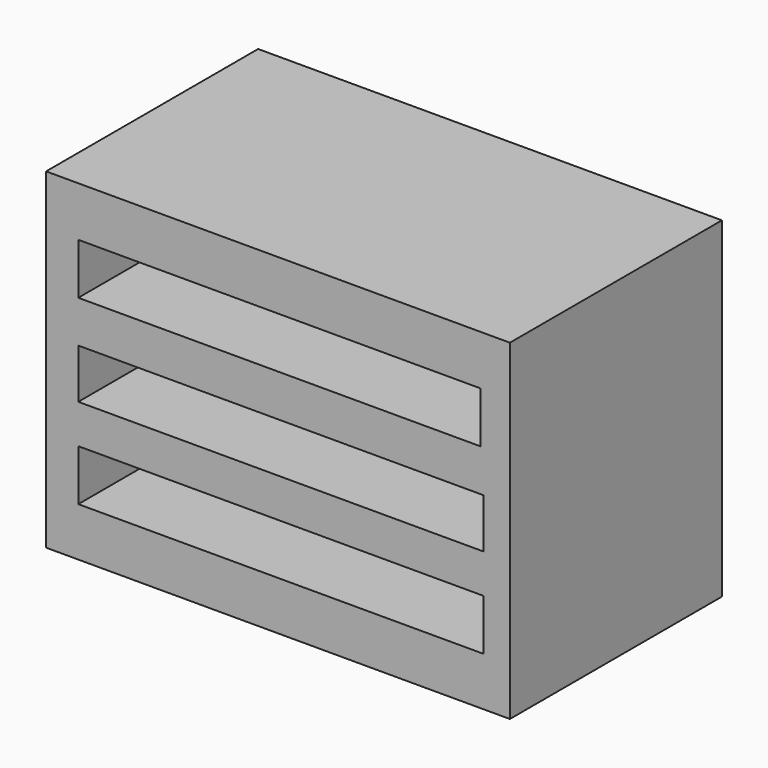
from build123d import *

# Parameters (mm, degrees)
F0_W     = 88.9
F0_H     = 50.8
F1_DEPTH = 63.5
F2_W     = 77.131945
F2_H     = 9.785395
F2_W_2   = 77.707555
F2_H_2   = 9.497588
F2_H_3   = 9.785396
F3_DEPTH = 127


with BuildPart() as f1:
    # F0 (on Top) → F1 (new body)
    with BuildSketch(Plane.XY):
        with Locations((6.763436, -7.159584)):
            Rectangle(F0_W, F0_H)
    extrude(amount=F1_DEPTH)

    # F2 (on Front) → F3 (cut)
    with BuildSketch(Plane.XZ):
        with Locations((7.051242, 49.070881)):
            Rectangle(F2_W, F2_H)
        with Locations((7.339047, 31.370827)):
            Rectangle(F2_W_2, F2_H_2)
        with Locations((7.339047, 14.246385)):
            Rectangle(F2_W_2, F2_H_3)
    extrude(amount=F3_DEPTH, mode=Mode.SUBTRACT)


solid = f1.part
